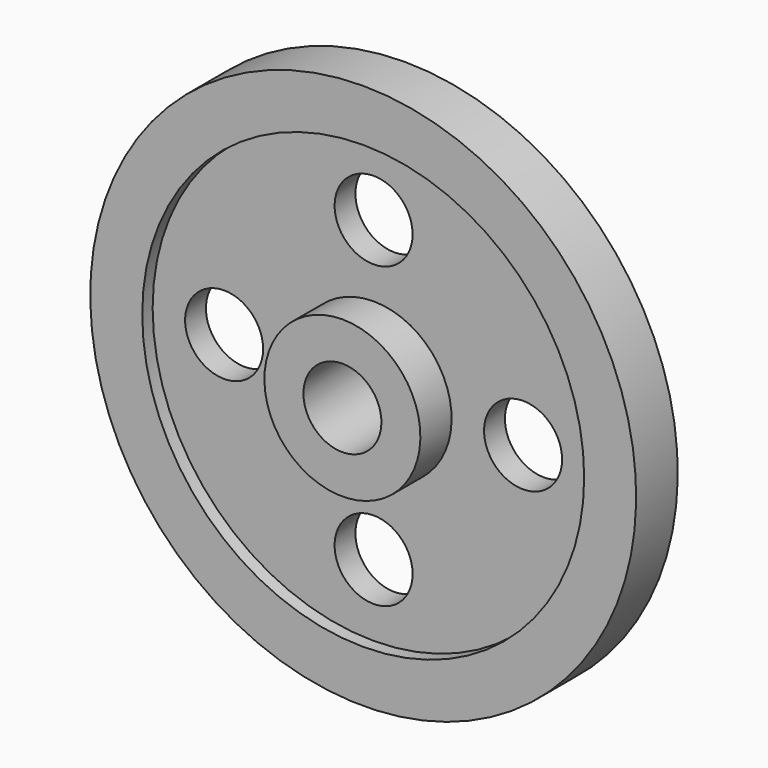
from build123d import *

# Parameters (mm, degrees)
F0_W     = 6.35
F0_H     = 25.4
F0_H_2   = 69.85
F0_H_3   = 19.05
F0_W_2   = 19.05
F0_W_3   = 12.7
F2_R     = 19.05
F3_DEPTH = 25.4


with BuildPart() as f1:
    # F0 (on Right) → F1 (revolve)
    with BuildSketch(Plane.YZ):
        with Locations((-3.175, 120.65)):
            Rectangle(F0_W, F0_H)
        with Locations((-9.525, 120.65)):
            Rectangle(F0_W, F0_H)
        with Locations((3.175, 120.65)):
            Rectangle(F0_W, F0_H)
        with Locations((9.525, 120.65)):
            Rectangle(F0_W, F0_H)
        with Locations((3.175, 73.025)):
            Rectangle(F0_W, F0_H_2)
        with Locations((-3.175, 73.025)):
            Rectangle(F0_W, F0_H_2)
        with Locations((9.525, 28.575)):
            Rectangle(F0_W, F0_H_3)
        with Locations((3.175, 28.575)):
            Rectangle(F0_W, F0_H_3)
        with Locations((-3.175, 28.575)):
            Rectangle(F0_W, F0_H_3)
        with Locations((-15.875, 28.575)):
            Rectangle(F0_W_2, F0_H_3)
        with Locations((19.05, 28.575)):
            Rectangle(F0_W_3, F0_H_3)
    revolve(axis=Axis((0, 50.8, 0), (0, 1, 0)))

    # F2 (on face) → F3 (cut)
    with BuildSketch(Plane.XZ.offset(6.35)):
        with BuildLine():
            ThreePointArc((19.05, 73.025), (-13.4703841816, 86.4953841816), (0, 53.975))
            ThreePointArc((0, 53.975), (13.4703841816, 59.5546158184), (19.05, 73.025))
        make_face()
        with Locations((73.025, 0)):
            Circle(F2_R)
        with Locations((0, -73.025)):
            Circle(F2_R)
        with Locations((-73.025, 0)):
            Circle(F2_R)
    extrude(amount=-F3_DEPTH, mode=Mode.SUBTRACT)


solid = f1.part
